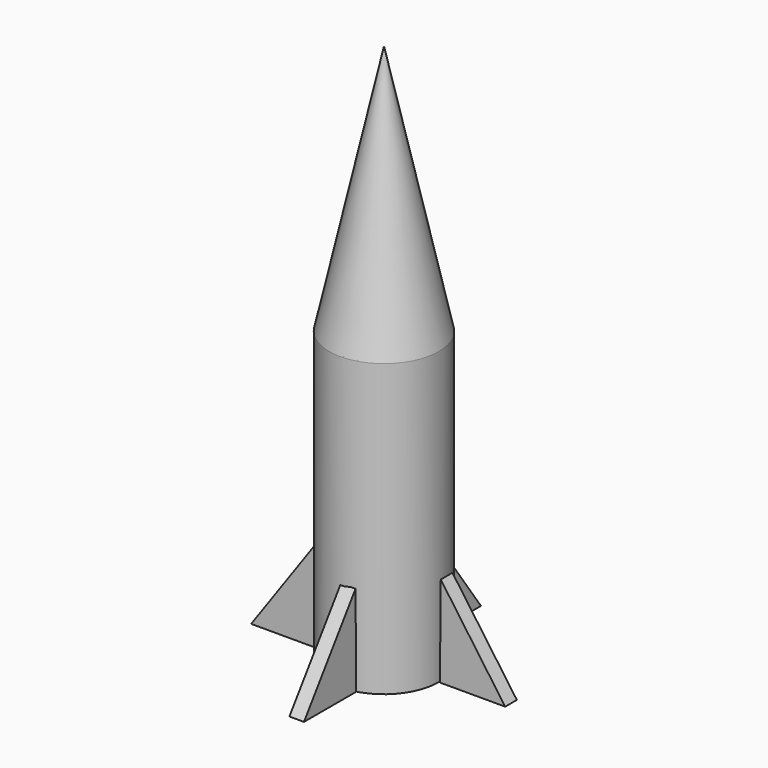
from build123d import *

# Parameters (mm, degrees)
F0_R     = 37.5
F1_DEPTH = 200
F5_DEPTH = 10
F7_COUNT = 4


with BuildPart() as f1:
    # F0 (on Top) → F1 (new body)
    with BuildSketch(Plane.XY):
        Circle(F0_R)
    extrude(amount=F1_DEPTH)


with BuildPart() as f3:
    # F2 (on Front) → F3 (revolve)
    with BuildSketch(Plane.XZ):
        Polygon((0, 372.409075), (0, 200), (37.614636, 200.474855), align=None)
    revolve(axis=Axis((0, 0, 286.204538), (0, 0, 1)))


with BuildPart() as f5:
    # F4 (on Right) → F5 (new body)
    with BuildSketch(Plane.YZ):
        Polygon((-38.308412, 0), (-38.882285, 62.353991), (-83.019905, 0), align=None)
    extrude(amount=F5_DEPTH)


with BuildPart() as f7_1:
    # F7: instance of F5
    add(f5.part.rotate(Axis((0, 0, 311.901301), (0, 0, 1)), 1 * 360 / F7_COUNT))


with BuildPart() as f7_2:
    # F7: instance of F5
    add(f5.part.rotate(Axis((0, 0, 311.901301), (0, 0, 1)), 2 * 360 / F7_COUNT))


with BuildPart() as f7_3:
    # F7: instance of F5
    add(f5.part.rotate(Axis((0, 0, 311.901301), (0, 0, 1)), 3 * 360 / F7_COUNT))


with BuildPart() as f3_1:
    # F8: moved
    add(f3.part.moved(Location((0, 0, -1))))


with BuildPart() as f5_1:
    # F9: moved
    add(f5.part.moved(Location((0, 2, 0))))


solid = Compound([f1.part, f7_1.part, f7_2.part, f7_3.part, f3_1.part, f5_1.part])
